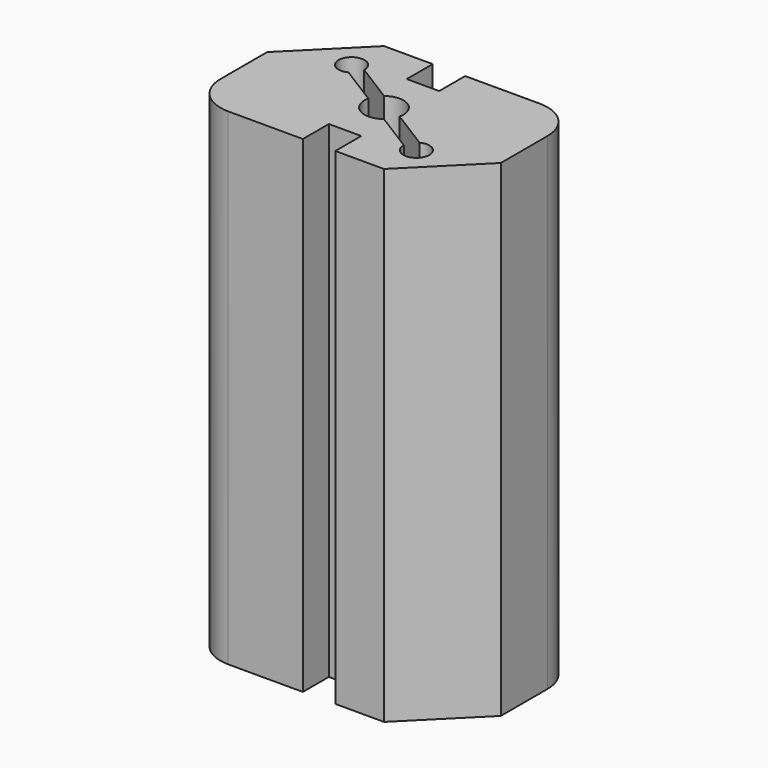
from build123d import *

# Parameters (mm, degrees)
F1_DEPTH = 150
F2_SIZE  = 20


with BuildPart() as f1:
    # F0 (on Top) → F1 (new body)
    with BuildSketch(Plane.XY):
        with BuildLine():
            ThreePointArc((40, 13), (36.485281, 21.485281), (28, 25))
            Line((28, 25), (5, 25))
            Line((5, 25), (5, 15))
            Line((5, 15), (-5, 15))
            Line((-5, 15), (-5, 25))
            Line((-5, 25), (-40, 25))
            Line((-40, 25), (-40, -13))
            ThreePointArc((-40, -13), (-36.485281, -21.485281), (-28, -25))
            Line((-28, -25), (-5, -25))
            Line((-5, -25), (-5, -15))
            Line((-5, -15), (5, -15))
            Line((5, -15), (5, -25))
            Line((5, -25), (40, -25))
            Line((40, -25), (40, 13))
        make_face()
        with BuildLine():
            ThreePointArc((-18.122446, 8.968033), (-23.391993, 14.619996), (-16.00245, 12.360026))
            Line((-16.00245, 12.360026), (-3.737005, 4.694123))
            ThreePointArc((-3.737005, 4.694123), (3.179994, 5.08799), (5.857001, -1.30213))
            Line((5.857001, -1.30213), (18.122446, -8.968033))
            ThreePointArc((18.122446, -8.968033), (23.391993, -14.619996), (16.00245, -12.360026))
            Line((16.00245, -12.360026), (3.737005, -4.694123))
            ThreePointArc((3.737005, -4.694123), (-3.179994, -5.08799), (-5.857001, 1.30213))
            Line((-5.857001, 1.30213), (-18.122446, 8.968033))
        make_face(mode=Mode.SUBTRACT)
    extrude(amount=F1_DEPTH)

    # F2
    f2_edges = [f1.edges().sort_by_distance(p)[0] for p in [
        (-40, 25, 75),
        (40, -25, 75),
    ]]
    chamfer(f2_edges, length=F2_SIZE)


solid = f1.part
